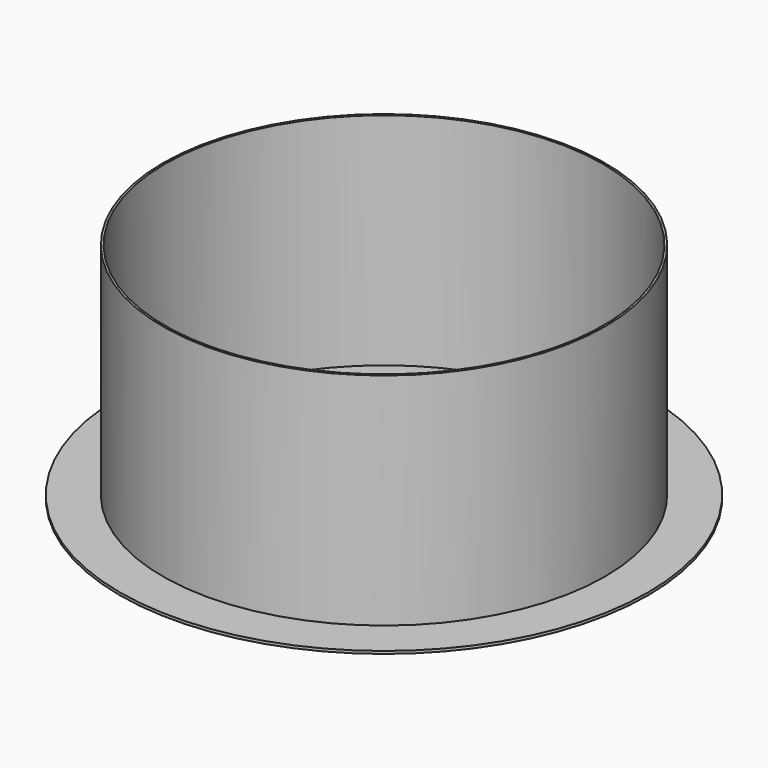
from build123d import *

# Parameters (mm, degrees)
F0_W = 0.48
F0_H = 50


with BuildPart() as f1:
    # F0 (on Front) → F1 (revolve)
    with BuildSketch(Plane.XZ):
        Polygon((-60, 0.6), (-60, 0), (-40, 0), (-40, 0.6), (-49.76, 0.6), (-50.24, 0.6), align=None)
        with Locations((-50, 25.6)):
            Rectangle(F0_W, F0_H)
    revolve(axis=Axis((0, 0, 25.866404), (0, 0, 1)))


solid = f1.part
